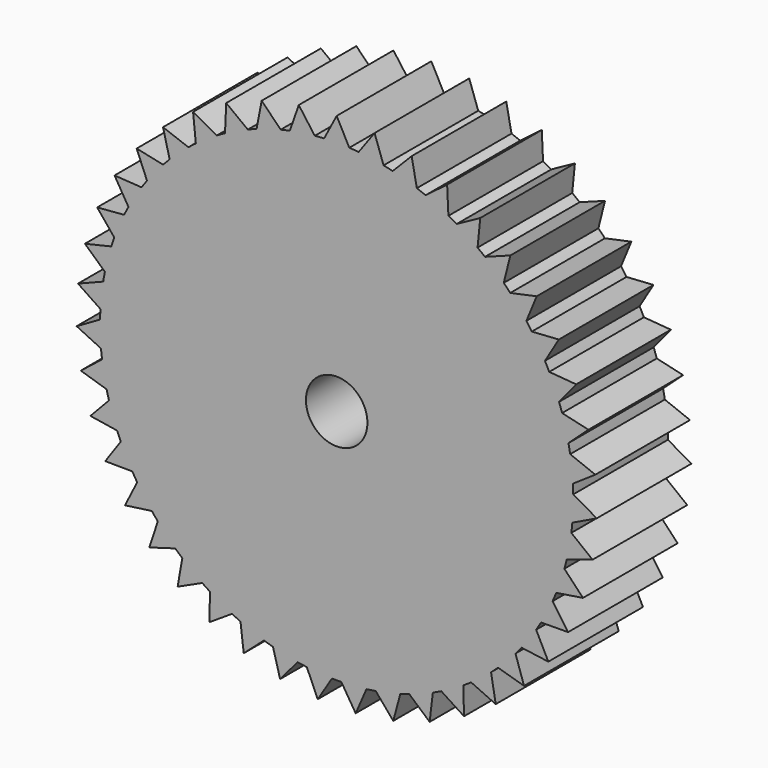
from build123d import *

# Parameters (mm, degrees)
F0_R     = 3.302
F1_DEPTH = 12.7


with BuildPart() as f1:
    # F0 (on Front) → F1 (new body)
    with BuildSketch(Plane.XZ):
        with BuildLine():
            ThreePointArc((25.2974003588, -2.2806874156), (25.3743371255, -1.1414970186), (25.4, 0))
            ThreePointArc((25.4, 0), (25.3991203417, 0.2113903185), (25.3964814278, 0.4227659952))
            ThreePointArc((25.3964814278, 0.4227659952), (25.3831500147, 0.9250380159), (25.3598860254, 1.4269480637))
            ThreePointArc((25.3598860254, 1.4269480637), (25.2479115297, 2.7754212993), (25.0642852505, 4.1160180859))
            ThreePointArc((25.0642852505, 4.1160180859), (24.9779645126, 4.6109965092), (24.88186975, 5.1041706223))
            ThreePointArc((24.88186975, 5.1041706223), (24.5747492475, 6.4219700576), (24.1978873484, 7.7215443971))
            ThreePointArc((24.1978873484, 7.7215443971), (24.0404170624, 8.1986796172), (23.8735396196, 8.6726066457))
            ThreePointArc((23.8735396196, 8.6726066457), (23.3778188506, 9.9316456737), (22.8157534886, 11.1624993952))
            ThreePointArc((22.8157534886, 11.1624993952), (22.5904898603, 11.6116221034), (22.3563864402, 12.0562011155))
            ThreePointArc((22.3563864402, 12.0562011155), (21.6826308323, 13.2296455051), (20.9473414548, 14.3655450985))
            ThreePointArc((20.9473414548, 14.3655450985), (20.6590855873, 14.777083024), (20.3627456979, 15.1828385898))
            ThreePointArc((20.3627456979, 15.1828385898), (19.5253151821, 16.2456784112), (18.6324732056, 17.2624141487))
            ThreePointArc((18.6324732056, 17.2624141487), (18.2873687723, 17.6275960751), (17.9351083838, 17.9858802193))
            ThreePointArc((17.9351083838, 17.9858802193), (16.9518513376, 18.9154628869), (15.9204861389, 19.7913648115))
            ThreePointArc((15.9204861389, 19.7913648115), (15.5258884415, 20.10240752), (15.1252153725, 20.4055840381))
            ThreePointArc((15.1252153725, 20.4055840381), (14.0170882129, 21.1820971113), (12.8691815504, 21.8984968942))
            ThreePointArc((12.8691815504, 21.8984968942), (12.4335007539, 22.1487710495), (11.9929546553, 22.3903782602))
            ThreePointArc((11.9929546553, 22.3903782602), (10.7835751887, 22.997271711), (9.5435927, 23.5389005346))
            ThreePointArc((9.5435927, 23.5389005346), (9.0761145841, 23.7230719776), (8.6050849311, 23.8979604429))
            ThreePointArc((8.6050849311, 23.8979604429), (7.3202289812, 24.3222993909), (6.0145987403, 24.6776133772))
            ThreePointArc((6.0145987403, 24.6776133772), (5.5252867895, 24.7917568134), (5.0338127613, 24.8961990891))
            ThreePointArc((5.0338127613, 24.8961990891), (3.700864802, 25.1289394865), (2.3574140507, 25.2903657347))
            ThreePointArc((2.3574140507, 25.2903657347), (1.8566970996, 25.3320483949), (1.355253612, 25.3638184753))
            Line((1.355253612, 25.3638184753), (0, 25.4))
            ThreePointArc((0, 25.4), (-0.6752460655, 25.3910228772), (-1.3500148265, 25.3640978544))
            ThreePointArc((-1.3500148265, 25.3640978544), (-1.8514648654, 25.3324313451), (-2.3521904151, 25.2908521061))
            ThreePointArc((-2.3521904151, 25.2908521061), (-3.6956744795, 25.1297033437), (-5.0286704816, 24.8972382643))
            ThreePointArc((-5.0286704816, 24.8972382643), (-5.5201660712, 24.792897502), (-6.0095015873, 24.6788551329))
            ThreePointArc((-6.0095015873, 24.6788551329), (-7.3152051885, 24.323810825), (-8.6001487558, 23.8997372659))
            ThreePointArc((-8.6001487558, 23.8997372659), (-9.071214521, 23.724946093), (-9.5387306665, 23.5408712088))
            ThreePointArc((-9.5387306665, 23.5408712088), (-10.7788249992, 22.9994985084), (-11.9883297905, 22.3928548612))
            ThreePointArc((-11.9883297905, 22.3928548612), (-12.4289257823, 22.151338648), (-12.8646582623, 21.9011544854))
            ThreePointArc((-12.8646582623, 21.9011544854), (-14.0127128688, 21.1849918116), (-15.1210003892, 20.4087076325))
            ThreePointArc((-15.1210003892, 20.4087076325), (-15.5217360691, 20.1056138778), (-15.9163980022, 19.7946526778))
            ThreePointArc((-15.9163980022, 19.7946526778), (-16.9479440917, 18.9189637947), (-17.931393117, 17.9895842332))
            ThreePointArc((-17.931393117, 17.9895842332), (-18.2837274996, 17.6313728541), (-18.6289073519, 17.2662622149))
            ThreePointArc((-18.6289073519, 17.2662622149), (-19.5219593105, 16.2497109107), (-20.3596093321, 15.1870440786))
            ThreePointArc((-20.3596093321, 15.1870440786), (-20.6560330218, 14.7813497288), (-20.944373884, 14.3698713497))
            ThreePointArc((-20.944373884, 14.3698713497), (-21.6798978596, 13.2341236506), (-22.3538958216, 12.0608184464))
            ThreePointArc((-22.3538958216, 12.0608184464), (-22.588091062, 11.6162877966), (-22.8134474493, 11.1672116249))
            ThreePointArc((-22.8134474493, 11.1672116249), (-23.3757670254, 9.9364740212), (-23.8717478314, 8.6775374085))
            ThreePointArc((-23.8717478314, 8.6775374085), (-24.0387231576, 8.2036448577), (-24.1962919899, 7.7265421723))
            ThreePointArc((-24.1962919899, 7.7265421723), (-24.5734223009, 6.4270456994), (-24.8808149811, 5.1093097262))
            ThreePointArc((-24.8808149811, 5.1093097262), (-24.977011604, 4.6161554714), (-25.063434575, 4.1211948878))
            ThreePointArc((-25.063434575, 4.1211948878), (-25.2473377432, 2.7806360567), (-25.3595907563, 1.4321859776))
            ThreePointArc((-25.3595907563, 1.4321859776), (-25.3829584118, 0.9302807456), (-25.3963935661, 0.4280114892))
            ThreePointArc((-25.3963935661, 0.4280114892), (-25.3831500147, -0.9250380159), (-25.2978708826, -2.2754623286))
            ThreePointArc((-25.2978708826, -2.2754623286), (-25.2479115297, -2.7754212993), (-25.1880725203, -3.2742942312))
            ThreePointArc((-25.1880725203, -3.2742942312), (-24.9779645126, -4.6109965092), (-24.6969708119, -5.9346131058))
            ThreePointArc((-24.6969708119, -5.9346131058), (-24.5747492475, -6.4219700576), (-24.442911439, -6.9068140547))
            ThreePointArc((-24.442911439, -6.9068140547), (-24.0404170624, -8.1986796172), (-23.569697686, -9.4672779081))
            ThreePointArc((-23.569697686, -9.4672779081), (-23.3778188506, -9.9316456737), (-23.1767921369, -10.3921271279))
            ThreePointArc((-23.1767921369, -10.3921271279), (-22.5904898603, -11.6116221034), (-21.9400773745, -12.7981641183))
            ThreePointArc((-21.9400773745, -12.7981641183), (-21.6826308323, -13.2296455051), (-21.4166997488, -13.6559500537))
            ThreePointArc((-21.4166997488, -13.6559500537), (-20.6590855873, -14.777083024), (-19.8428424051, -15.8562796799))
            ThreePointArc((-19.8428424051, -15.8562796799), (-19.5253151821, -16.2456784112), (-19.2001475882, -16.6287201128))
            ThreePointArc((-19.2001475882, -16.6287201128), (-18.2873687723, -17.6275960751), (-17.3226916999, -18.576446169))
            ThreePointArc((-17.3226916999, -18.576446169), (-16.9518513376, -18.9154628869), (-16.5743776161, -19.2470778727))
            ThreePointArc((-16.5743776161, -19.2470778727), (-15.5258884415, -20.10240752), (-14.4333378959, -20.9006879595))
            ThreePointArc((-14.4333378959, -20.9006879595), (-14.0170882129, -21.1820971113), (-13.5953535607, -21.4552175836))
            ThreePointArc((-13.5953535607, -21.4552175836), (-12.4335007539, -22.1487710495), (-11.2363625531, -22.7794678729))
            ThreePointArc((-11.2363625531, -22.7794678729), (-10.7835751887, -22.997271711), (-10.3265681477, -23.2060765812))
            ThreePointArc((-10.3265681477, -23.2060765812), (-9.0761145841, -23.7230719776), (-7.7999036505, -24.1727429772))
            ThreePointArc((-7.7999036505, -24.1727429772), (-7.3202289812, -24.3222993909), (-6.8376898632, -24.4623383456))
            ThreePointArc((-6.8376898632, -24.4623383456), (-5.5252867895, -24.7917568134), (-4.1972033435, -25.0508180324))
            ThreePointArc((-4.1972033435, -25.0508180324), (-3.700864802, -25.1289394865), (-3.2030780904, -25.1972278385))
            ThreePointArc((-3.2030780904, -25.1972278385), (-1.8566970996, -25.3320483949), (-0.5050469341, -25.3949783933))
            ThreePointArc((-0.5050469341, -25.3949783933), (-0.0026231149, -25.3999998646), (0.4998017308, -25.3950821662))
            ThreePointArc((0.4998017308, -25.3950821662), (1.8514648654, -25.3324313451), (3.1978736739, -25.1978888791))
            ThreePointArc((3.1978736739, -25.1978888791), (3.6956744795, -25.1297033437), (4.1920291458, -25.0516844073))
            ThreePointArc((4.1920291458, -25.0516844073), (5.5201660712, -24.792897502), (6.8326371565, -24.4637501109))
            ThreePointArc((6.8326371565, -24.4637501109), (7.3152051885, -24.323810825), (7.7949107376, -24.1743534886))
            ThreePointArc((7.7949107376, -24.1743534886), (9.071214521, -23.724946093), (10.3217748405, -23.2082089818))
            ThreePointArc((10.3217748405, -23.2082089818), (10.7788249992, -22.9994985084), (11.2316573402, -22.7817881957))
            ThreePointArc((11.2316573402, -22.7817881957), (12.4289257823, -22.151338648), (13.590921814, -21.4580251711))
            ThreePointArc((13.590921814, -21.4580251711), (14.0127128688, -21.1849918116), (14.4290206664, -20.90366864))
            ThreePointArc((14.4290206664, -20.90366864), (15.5217360691, -20.1056138778), (16.5704018849, -19.2505008083))
            ThreePointArc((16.5704018849, -19.2505008083), (16.9479440917, -18.9189637947), (17.318854468, -18.5800236791))
            ThreePointArc((17.318854468, -18.5800236791), (18.2837274996, -17.6313728541), (19.1967126084, -16.6326854426))
            ThreePointArc((19.1967126084, -16.6326854426), (19.5219593105, -16.2497109107), (19.8395669548, -15.8603777712))
            ThreePointArc((19.8395669548, -15.8603777712), (20.6560330218, -14.7813497288), (21.4138787309, -13.6603732634))
            ThreePointArc((21.4138787309, -13.6603732634), (21.6798978596, -13.2341236506), (21.9374335164, -12.8026954471))
            ThreePointArc((21.9374335164, -12.8026954471), (22.588091062, -11.6162877966), (23.1746452061, -10.3969139446))
            ThreePointArc((23.1746452061, -10.3969139446), (23.3757670254, -9.9364740212), (23.5677417693, -9.472145897))
            ThreePointArc((23.5677417693, -9.472145897), (24.0387231576, -8.2036448577), (24.4414843533, -6.9118624557))
            ThreePointArc((24.4414843533, -6.9118624557), (24.5734223009, -6.4270456994), (24.6957445236, -5.9397140021))
            ThreePointArc((24.6957445236, -5.9397140021), (24.977011604, -4.6161554714), (25.1873956956, -3.2794966186))
            ThreePointArc((25.1873956956, -3.2794966186), (25.2473377432, -2.7806360567), (25.2974003588, -2.2806874156))
        make_face()
        Circle(F0_R, mode=Mode.SUBTRACT)
        with BuildLine():
            ThreePointArc((25.3964814278, 0.4227659952), (25.3991203417, 0.2113903185), (25.4, 0))
            ThreePointArc((25.4, 0), (25.3743371255, -1.1414970186), (25.2974003588, -2.2806874156))
            Line((25.2974003588, -2.2806874156), (27.9169458746, -1.0202640117))
            Line((27.9169458746, -1.0202640117), (25.3964814278, 0.4227659952))
        make_face()
        with BuildLine():
            ThreePointArc((25.0642852505, 4.1160180859), (25.2479115297, 2.7754212993), (25.3598860254, 1.4269480637))
            Line((25.3598860254, 1.4269480637), (27.7679968895, 3.0553484852))
            Line((27.7679968895, 3.0553484852), (25.0642852505, 4.1160180859))
        make_face()
        with BuildLine():
            Line((27.4708936264, -5.0741313526), (25.1873956956, -3.2794966186))
            ThreePointArc((25.1873956956, -3.2794966186), (24.977011604, -4.6161554714), (24.6957445236, -5.9397140021))
            Line((24.6957445236, -5.9397140021), (27.4708936264, -5.0741313526))
        make_face()
        with BuildLine():
            ThreePointArc((24.1978873484, 7.7215443971), (24.5747492475, 6.4219700576), (24.88186975, 5.1041706223))
            Line((24.88186975, 5.1041706223), (27.02722126, 7.0658415338))
            Line((27.02722126, 7.0658415338), (24.1978873484, 7.7215443971))
        make_face()
        with BuildLine():
            Line((26.4393469742, -9.0198523932), (24.4414843533, -6.9118624557))
            ThreePointArc((24.4414843533, -6.9118624557), (24.0387231576, -8.2036448577), (23.5677417693, -9.472145897))
            Line((23.5677417693, -9.472145897), (26.4393469742, -9.0198523932))
        make_face()
        with BuildLine():
            ThreePointArc((22.8157534886, 11.1624993952), (23.3778188506, 9.9316456737), (23.8735396196, 8.6726066457))
            Line((23.8735396196, 8.6726066457), (25.7104073328, 10.9257384374))
            Line((25.7104073328, 10.9257384374), (22.8157534886, 11.1624993952))
        make_face()
        with BuildLine():
            Line((24.844291544, -12.7733309398), (23.1746452061, -10.3969139446))
            ThreePointArc((23.1746452061, -10.3969139446), (22.588091062, -11.6162877966), (21.9374335164, -12.8026954471))
            Line((21.9374335164, -12.8026954471), (24.844291544, -12.7733309398))
        make_face()
        with BuildLine():
            ThreePointArc((20.9473414548, 14.3655450985), (21.6826308323, 13.2296455051), (22.3563864402, 12.0562011155))
            Line((22.3563864402, 12.0562011155), (23.8456207103, 14.552772195))
            Line((23.8456207103, 14.552772195), (20.9473414548, 14.3655450985))
        make_face()
        with BuildLine():
            Line((22.7197231728, -16.2545681139), (21.4138787309, -13.6603732634))
            ThreePointArc((21.4138787309, -13.6603732634), (20.6560330218, -14.7813497288), (19.8395669548, -15.8603777712))
            Line((19.8395669548, -15.8603777712), (22.7197231728, -16.2545681139))
        make_face()
        with BuildLine():
            ThreePointArc((18.6324732056, 17.2624141487), (19.5253151821, 16.2456784112), (20.3627456979, 15.1828385898))
            Line((20.3627456979, 15.1828385898), (21.472606082, 17.869638879))
            Line((21.472606082, 17.869638879), (18.6324732056, 17.2624141487))
        make_face()
        with BuildLine():
            Line((20.1109233471, -19.389367389), (19.1967126084, -16.6326854426))
            ThreePointArc((19.1967126084, -16.6326854426), (18.2837274996, -17.6313728541), (17.318854468, -18.5800236791))
            Line((17.318854468, -18.5800236791), (20.1109233471, -19.389367389))
        make_face()
        with BuildLine():
            ThreePointArc((15.9204861389, 19.7913648115), (16.9518513376, 18.9154628869), (17.9351083838, 17.9858802193))
            Line((17.9351083838, 17.9858802193), (18.6419401347, 20.8056452347))
            Line((18.6419401347, 20.8056452347), (15.9204861389, 19.7913648115))
        make_face()
        with BuildLine():
            Line((17.0734941059, -22.110915961), (16.5704018849, -19.2505008083))
            ThreePointArc((16.5704018849, -19.2505008083), (15.5217360691, -20.1056138778), (14.4290206664, -20.90366864))
            Line((14.4290206664, -20.90366864), (17.0734941059, -22.110915961))
        make_face()
        with BuildLine():
            ThreePointArc((12.8691815504, 21.8984968942), (14.0170882129, 21.1820971113), (15.1252153725, 20.4055840381))
            Line((15.1252153725, 20.4055840381), (15.4139535987, 23.2982153839))
            Line((15.4139535987, 23.2982153839), (12.8691815504, 21.8984968942))
        make_face()
        with BuildLine():
            Line((13.6721729799, -24.3612087472), (13.590921814, -21.4580251711))
            ThreePointArc((13.590921814, -21.4580251711), (12.4289257823, -22.151338648), (11.2316573402, -22.7817881957))
            Line((11.2316573402, -22.7817881957), (13.6721729799, -24.3612087472))
        make_face()
        with BuildLine():
            ThreePointArc((9.5435927, 23.5389005346), (10.7835751887, 22.997271711), (11.9929546553, 22.3903782602))
            Line((11.9929546553, 22.3903782602), (11.8574454027, 25.2942245215))
            Line((11.8574454027, 25.2942245215), (9.5435927, 23.5389005346))
        make_face()
        with BuildLine():
            Line((9.9794532238, -26.0922846637), (10.3217748405, -23.2082089818))
            ThreePointArc((10.3217748405, -23.2082089818), (9.071214521, -23.724946093), (7.7949107376, -24.1743534886))
            Line((7.7949107376, -24.1743534886), (9.9794532238, -26.0922846637))
        make_face()
        with BuildLine():
            ThreePointArc((6.0145987403, 24.6776133772), (7.3202289812, 24.3222993909), (8.6050849311, 23.8979604429))
            Line((8.6050849311, 23.8979604429), (8.0482163442, 26.7511311779))
            Line((8.0482163442, 26.7511311779), (6.0145987403, 24.6776133772))
        make_face()
        with BuildLine():
            Line((6.0740387481, -27.2672488327), (6.8326371565, -24.4637501109))
            ThreePointArc((6.8326371565, -24.4637501109), (5.5201660712, -24.792897502), (4.1920291458, -25.0516844073))
            Line((4.1920291458, -25.0516844073), (6.0740387481, -27.2672488327))
        make_face()
        with BuildLine():
            ThreePointArc((2.3574140507, 25.2903657347), (3.700864802, 25.1289394865), (5.0338127613, 24.8961990891))
            Line((5.0338127613, 24.8961990891), (4.0674535272, 27.6378839172))
            Line((4.0674535272, 27.6378839172), (2.3574140507, 25.2903657347))
        make_face()
        with BuildLine():
            Line((2.0391666819, -27.8610589329), (3.1978736739, -25.1978888791))
            ThreePointArc((3.1978736739, -25.1978888791), (1.8514648654, -25.3324313451), (0.4998017308, -25.3950821662))
            Line((0.4998017308, -25.3950821662), (2.0391666819, -27.8610589329))
        make_face()
        with BuildLine():
            Line((0, 25.4), (1.355253612, 25.3638184753))
            ThreePointArc((1.355253612, 25.3638184753), (0.6778682497, 25.3909530076), (0, 25.4))
        make_face()
        with BuildLine():
            ThreePointArc((0, 25.4), (0.6778682497, 25.3909530076), (1.355253612, 25.3638184753))
            Line((1.355253612, 25.3638184753), (0, 27.9355831444))
            Line((0, 27.9355831444), (-1.3500148265, 25.3640978544))
            ThreePointArc((-1.3500148265, 25.3640978544), (-0.6752460655, 25.3910228772), (0, 25.4))
        make_face()
        with BuildLine():
            Line((-2.0391666819, -27.8610589329), (-0.5050469341, -25.3949783933))
            ThreePointArc((-0.5050469341, -25.3949783933), (-1.8566970996, -25.3320483949), (-3.2030780904, -25.1972278385))
            Line((-3.2030780904, -25.1972278385), (-2.0391666819, -27.8610589329))
        make_face()
        with BuildLine():
            Line((-6.0740387481, -27.2672488327), (-4.1972033435, -25.0508180324))
            ThreePointArc((-4.1972033435, -25.0508180324), (-5.5252867895, -24.7917568134), (-6.8376898632, -24.4623383456))
            Line((-6.8376898632, -24.4623383456), (-6.0740387481, -27.2672488327))
        make_face()
        with BuildLine():
            ThreePointArc((-5.0286704816, 24.8972382643), (-3.6956744795, 25.1297033437), (-2.3521904151, 25.2908521061))
            Line((-2.3521904151, 25.2908521061), (-4.0674535272, 27.6378839172))
            Line((-4.0674535272, 27.6378839172), (-5.0286704816, 24.8972382643))
        make_face()
        with BuildLine():
            Line((-9.9794532238, -26.0922846637), (-7.7999036505, -24.1727429772))
            ThreePointArc((-7.7999036505, -24.1727429772), (-9.0761145841, -23.7230719776), (-10.3265681477, -23.2060765812))
            Line((-10.3265681477, -23.2060765812), (-9.9794532238, -26.0922846637))
        make_face()
        with BuildLine():
            ThreePointArc((-8.6001487558, 23.8997372659), (-7.3152051885, 24.323810825), (-6.0095015873, 24.6788551329))
            Line((-6.0095015873, 24.6788551329), (-8.0482163442, 26.7511311779))
            Line((-8.0482163442, 26.7511311779), (-8.6001487558, 23.8997372659))
        make_face()
        with BuildLine():
            Line((-13.6721729799, -24.3612087472), (-11.2363625531, -22.7794678729))
            ThreePointArc((-11.2363625531, -22.7794678729), (-12.4335007539, -22.1487710495), (-13.5953535607, -21.4552175836))
            Line((-13.5953535607, -21.4552175836), (-13.6721729799, -24.3612087472))
        make_face()
        with BuildLine():
            ThreePointArc((-11.9883297905, 22.3928548612), (-10.7788249992, 22.9994985084), (-9.5387306665, 23.5408712088))
            Line((-9.5387306665, 23.5408712088), (-11.8574454027, 25.2942245215))
            Line((-11.8574454027, 25.2942245215), (-11.9883297905, 22.3928548612))
        make_face()
        with BuildLine():
            Line((-17.0734941059, -22.110915961), (-14.4333378959, -20.9006879595))
            ThreePointArc((-14.4333378959, -20.9006879595), (-15.5258884415, -20.10240752), (-16.5743776161, -19.2470778727))
            Line((-16.5743776161, -19.2470778727), (-17.0734941059, -22.110915961))
        make_face()
        with BuildLine():
            ThreePointArc((-15.1210003892, 20.4087076325), (-14.0127128688, 21.1849918116), (-12.8646582623, 21.9011544854))
            Line((-12.8646582623, 21.9011544854), (-15.4139535987, 23.2982153839))
            Line((-15.4139535987, 23.2982153839), (-15.1210003892, 20.4087076325))
        make_face()
        with BuildLine():
            Line((-20.1109233471, -19.389367389), (-17.3226916999, -18.576446169))
            ThreePointArc((-17.3226916999, -18.576446169), (-18.2873687723, -17.6275960751), (-19.2001475882, -16.6287201128))
            Line((-19.2001475882, -16.6287201128), (-20.1109233471, -19.389367389))
        make_face()
        with BuildLine():
            ThreePointArc((-17.931393117, 17.9895842332), (-16.9479440917, 18.9189637947), (-15.9163980022, 19.7946526778))
            Line((-15.9163980022, 19.7946526778), (-18.6419401347, 20.8056452347))
            Line((-18.6419401347, 20.8056452347), (-17.931393117, 17.9895842332))
        make_face()
        with BuildLine():
            Line((-22.7197231728, -16.2545681139), (-19.8428424051, -15.8562796799))
            ThreePointArc((-19.8428424051, -15.8562796799), (-20.6590855873, -14.777083024), (-21.4166997488, -13.6559500537))
            Line((-21.4166997488, -13.6559500537), (-22.7197231728, -16.2545681139))
        make_face()
        with BuildLine():
            ThreePointArc((-20.3596093321, 15.1870440786), (-19.5219593105, 16.2497109107), (-18.6289073519, 17.2662622149))
            Line((-18.6289073519, 17.2662622149), (-21.472606082, 17.869638879))
            Line((-21.472606082, 17.869638879), (-20.3596093321, 15.1870440786))
        make_face()
        with BuildLine():
            Line((-24.844291544, -12.7733309398), (-21.9400773745, -12.7981641183))
            ThreePointArc((-21.9400773745, -12.7981641183), (-22.5904898603, -11.6116221034), (-23.1767921369, -10.3921271279))
            Line((-23.1767921369, -10.3921271279), (-24.844291544, -12.7733309398))
        make_face()
        with BuildLine():
            ThreePointArc((-22.3538958216, 12.0608184464), (-21.6798978596, 13.2341236506), (-20.944373884, 14.3698713497))
            Line((-20.944373884, 14.3698713497), (-23.8456207103, 14.552772195))
            Line((-23.8456207103, 14.552772195), (-22.3538958216, 12.0608184464))
        make_face()
        with BuildLine():
            Line((-26.4393469742, -9.0198523932), (-23.569697686, -9.4672779081))
            ThreePointArc((-23.569697686, -9.4672779081), (-24.0404170624, -8.1986796172), (-24.442911439, -6.9068140547))
            Line((-24.442911439, -6.9068140547), (-26.4393469742, -9.0198523932))
        make_face()
        with BuildLine():
            ThreePointArc((-23.8717478314, 8.6775374085), (-23.3757670254, 9.9364740212), (-22.8134474493, 11.1672116249))
            Line((-22.8134474493, 11.1672116249), (-25.7104073328, 10.9257384374))
            Line((-25.7104073328, 10.9257384374), (-23.8717478314, 8.6775374085))
        make_face()
        with BuildLine():
            Line((-27.4708936264, -5.0741313526), (-24.6969708119, -5.9346131058))
            ThreePointArc((-24.6969708119, -5.9346131058), (-24.9779645126, -4.6109965092), (-25.1880725203, -3.2742942312))
            Line((-25.1880725203, -3.2742942312), (-27.4708936264, -5.0741313526))
        make_face()
        with BuildLine():
            ThreePointArc((-24.8808149811, 5.1093097262), (-24.5734223009, 6.4270456994), (-24.1962919899, 7.7265421723))
            Line((-24.1962919899, 7.7265421723), (-27.02722126, 7.0658415338))
            Line((-27.02722126, 7.0658415338), (-24.8808149811, 5.1093097262))
        make_face()
        with BuildLine():
            Line((-27.9169458746, -1.0202640117), (-25.2978708826, -2.2754623286))
            ThreePointArc((-25.2978708826, -2.2754623286), (-25.3831500147, -0.9250380159), (-25.3963935661, 0.4280114892))
            Line((-25.3963935661, 0.4280114892), (-27.9169458746, -1.0202640117))
        make_face()
        with BuildLine():
            ThreePointArc((-25.3595907563, 1.4321859776), (-25.2473377432, 2.7806360567), (-25.063434575, 4.1211948878))
            Line((-25.063434575, 4.1211948878), (-27.7679968895, 3.0553484852))
            Line((-27.7679968895, 3.0553484852), (-25.3595907563, 1.4321859776))
        make_face()
    extrude(amount=F1_DEPTH)


solid = f1.part
